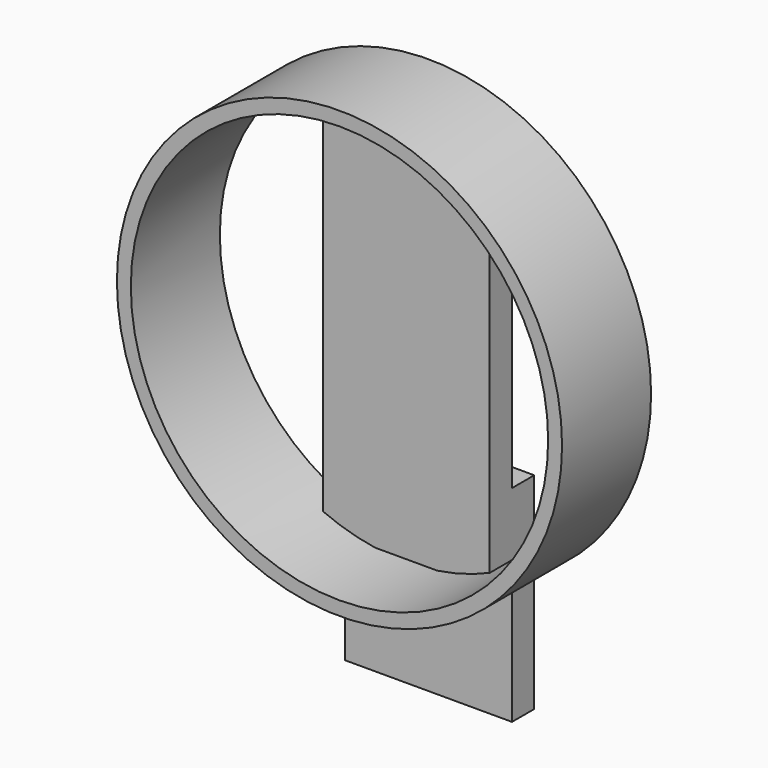
from build123d import *

# Parameters (mm, degrees)
F0_R     = 50.8
F1_DEPTH = 25.4
F2_R     = 47.625
F3_DEPTH = 25.4
F4_W     = 38.1
F4_H     = 94.18572
F5_DEPTH = 6.35
F6_W     = 38.1
F6_H     = 46.983762
F7_DEPTH = 6.35


with BuildPart() as f1:
    # F0 (on Front) → F1 (new body)
    with BuildSketch(Plane.XZ):
        Circle(F0_R)
    extrude(amount=-F1_DEPTH)

    # F2 (on face) → F3 (cut)
    with BuildSketch(Plane.XZ):
        Circle(F2_R)
    extrude(amount=-F3_DEPTH, mode=Mode.SUBTRACT)

    # F4 (on face) → F5 (join)
    with BuildSketch(Plane(origin=(0, 25.4, 0), x_dir=(-1, 0, 0), z_dir=(0, 1, 0))):
        Rectangle(F4_W, F4_H)
    extrude(amount=-F5_DEPTH)

    # F6 (on face) → F7 (join)
    with BuildSketch(Plane(origin=(0, 25.4, 0), x_dir=(-1, 0, 0), z_dir=(0, 1, 0))):
        with Locations((0, -52.684718)):
            Rectangle(F6_W, F6_H)
    extrude(amount=F7_DEPTH)


solid = f1.part
